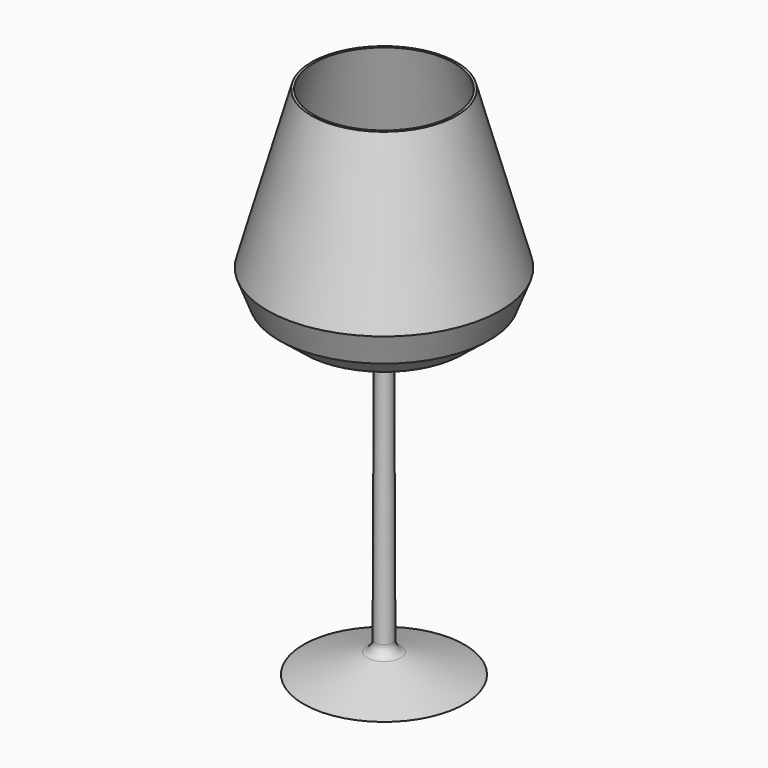
from build123d import *

# Parameters (mm, degrees)
F2_R = 5
F3_T = -1


with BuildPart() as f1:
    # F0 (on Front) → F1 (revolve)
    with BuildSketch(Plane.XZ):
        Polygon((0, 234.375019135), (-32.5, 234.375019135), (-52.2581860423, 163.971722126), (-47.0857657492, 150.5581885576), (-35.2828800678, 141.1640495062), (-17.2172356397, 136.105671525), (-3.6069871858, 127.5546848774), (-4.0083518252, 13.5655401951), (-36.054097116, 3.551248461), (0, 3.551248461), align=None)
    revolve(axis=Axis((0, 0, 118.963133798), (0, 0, -1)))

    # F2
    f2_edges = [f1.edges().sort_by_distance(p)[0] for p in [
        (4.008352, 0, 13.56554),
        (3.606987, 0, 127.554685),
    ]]
    fillet(f2_edges, radius=F2_R)

    # F3
    f3_openings = [f1.faces().sort_by_distance(p)[0] for p in [
        (0, 0, 234.375019),
    ]]
    offset(amount=F3_T, openings=f3_openings, kind=Kind.INTERSECTION)


solid = f1.part
